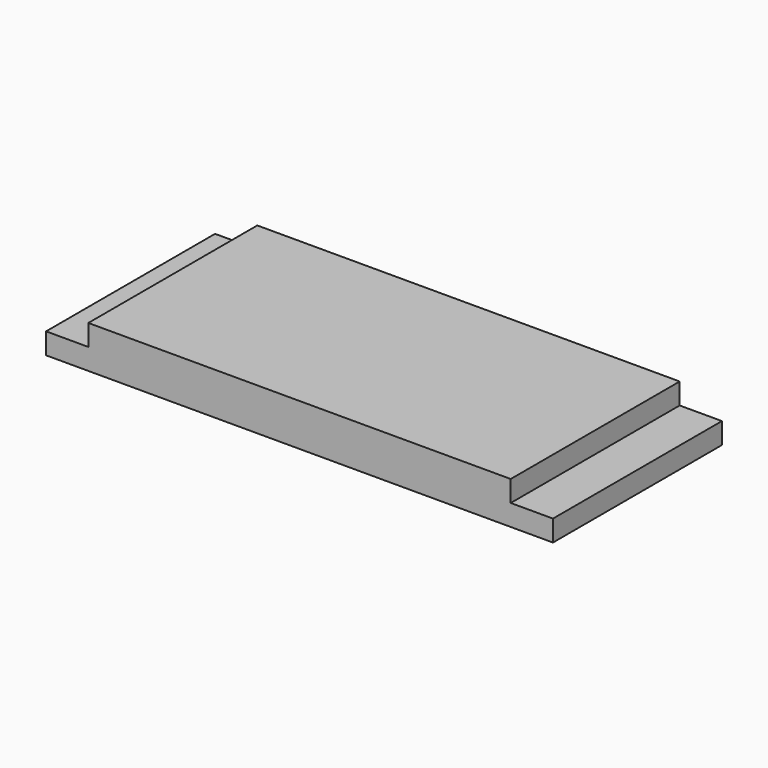
from build123d import *

# Parameters (mm, degrees)
F0_W     = 254
F0_H     = 152.4
F1_DEPTH = 25.4
F0_W_2   = 25.4
F2_DEPTH = 12.7
F3_DEPTH = 12.7
F4_W     = 304.8
F4_H     = 12.7
F5_DEPTH = 152.4


with BuildPart() as f1:
    # F0 (on Top) → F1 (new body)
    with BuildSketch(Plane.XY):
        with Locations((-2.658943, -21.820255)):
            Rectangle(F0_W, F0_H)
    extrude(amount=F1_DEPTH)

    # F0 (on Top) → F2 (join)
    with BuildSketch(Plane.XY):
        with Locations((-142.358943, -21.820255)):
            Rectangle(F0_W_2, F0_H)
    extrude(amount=F2_DEPTH)

    # F0 (on Top) → F3 (join)
    with BuildSketch(Plane.XY):
        with Locations((-142.358943, -21.820255)):
            Rectangle(F0_W_2, F0_H)
        with Locations((-2.658943, -21.820255)):
            Rectangle(F0_W, F0_H)
        with Locations((137.041057, -21.820255)):
            Rectangle(F0_W_2, F0_H)
    extrude(amount=F3_DEPTH)

    # F4 (on face) → F5 (cut)
    with BuildSketch(Plane(origin=(0, 0, 0), x_dir=(1, 0, 0), z_dir=(0, 0, -1))):
        with Locations((-2.658943, 91.670255)):
            Rectangle(F4_W, F4_H)
        with Locations((-2.658943, -48.029745)):
            Rectangle(F4_W, F4_H)
    extrude(amount=-F5_DEPTH, mode=Mode.SUBTRACT)


solid = f1.part
